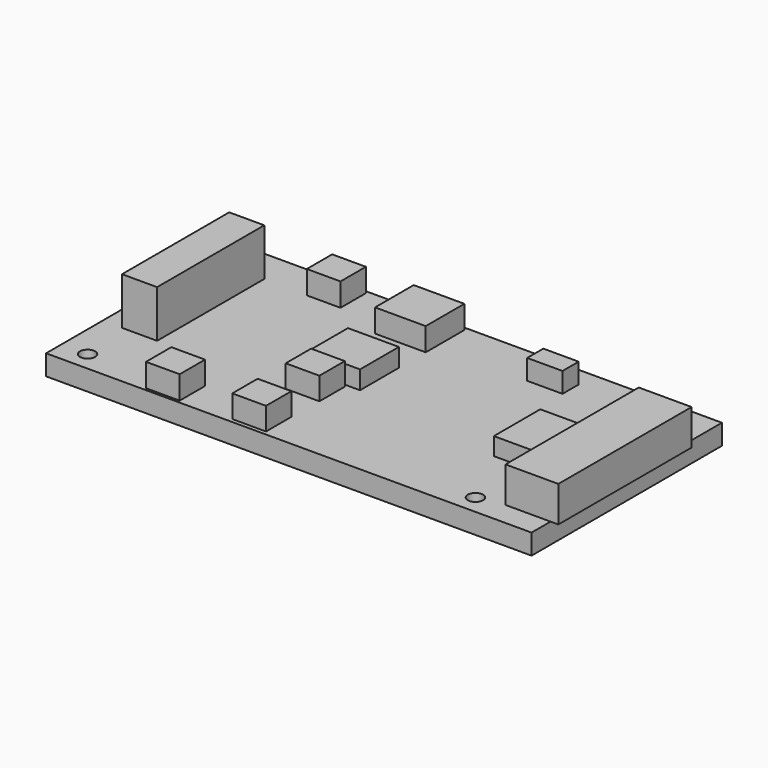
from build123d import *

# Parameters (mm, degrees)
F0_W      = 102
F0_H      = 50
F1_DEPTH  = 4.27
F2_W      = 11.1
F2_H      = 35
F3_DEPTH  = 7.5
F4_W      = 7.37
F4_H      = 28.15
F5_DEPTH  = 9.93
F6_W      = 7.08
F6_H      = 6.66
F7_DEPTH  = 4.88
F8_W      = 10.65
F8_H      = 10.15
F9_DEPTH  = 4.85
F10_W     = 10.71
F10_H     = 10.22
F11_DEPTH = 3.86
F13_W     = 7.08
F13_H     = 6.66
F14_DEPTH = 4.73
F15_W     = 7.08
F15_H     = 6.66
F16_DEPTH = 4.75
F17_W     = 9.3
F17_H     = 12.19
F18_DEPTH = 3.71
F19_W     = 7.42
F19_H     = 4.24
F20_DEPTH = 4.23
F21_R     = 1.6
F22_DEPTH = 25


with BuildPart() as f1:
    # F0 (on Top) → F1 (new body)
    with BuildSketch(Plane.XY):
        Rectangle(F0_W, F0_H)
    extrude(amount=F1_DEPTH)

    # F2 (on face) → F3 (join)
    with BuildSketch(Plane.XY.offset(4.27)):
        with Locations((47.08, -2.5)):
            Rectangle(F2_W, F2_H)
    extrude(amount=F3_DEPTH)

    # F4 (on face) → F5 (join)
    with BuildSketch(Plane.XY.offset(4.27)):
        with Locations((-43.225, 3.906207)):
            Rectangle(F4_W, F4_H)
    extrude(amount=F5_DEPTH)

    # F8 (on face) → F9 (join)
    with BuildSketch(Plane.XY.offset(4.27)):
        with Locations((-7.895, 19.245)):
            Rectangle(F8_W, F8_H)
    extrude(amount=F9_DEPTH)

    # F10 (on face) → F11 (join)
    with BuildSketch(Plane.XY.offset(4.27)):
        with Locations((-7.925, 2.02)):
            Rectangle(F10_W, F10_H)
    extrude(amount=F11_DEPTH)

    # F13 (on face) → F14 (join)
    with BuildSketch(Plane.XY.offset(4.27)):
        with Locations((-8.86, -6.98)):
            Rectangle(F13_W, F13_H)
    extrude(amount=F14_DEPTH)

    # F15 (on face) → F16 (join)
    with BuildSketch(Plane.XY.offset(4.27)):
        with Locations((-9, -20.84)):
            Rectangle(F15_W, F15_H)
    extrude(amount=F16_DEPTH)

    # F17 (on face) → F18 (join)
    with BuildSketch(Plane.XY.offset(4.27)):
        with Locations((33.85, -1.555)):
            Rectangle(F17_W, F17_H)
    extrude(amount=F18_DEPTH)

    # F19 (on face) → F20 (join)
    with BuildSketch(Plane.XY.offset(4.27)):
        with Locations((20.46, 18.79)):
            Rectangle(F19_W, F19_H)
    extrude(amount=F20_DEPTH)

    # F21 (on face) → F22 (cut)
    with BuildSketch(Plane.XY.offset(4.27)):
        with Locations((-45.5, -20.99)):
            Circle(F21_R)
        with Locations((36.01, -21)):
            Circle(F21_R)
        with Locations((-45.5, 20.99)):
            Circle(F21_R)
        with Locations((36.01, 21)):
            Circle(F21_R)
    extrude(amount=-F22_DEPTH, mode=Mode.SUBTRACT)


with BuildPart() as f7:
    # F6 (on face) → F7 (new body)
    with BuildSketch(Plane.XY.offset(4.27)):
        with Locations((-26.91, 21.12)):
            Rectangle(F6_W, F6_H)
    extrude(amount=F7_DEPTH)


with BuildPart() as f12_1:
    # F12: instance of F7
    add(f7.part.mirror(Plane.XZ))


solid = Compound([f1.part, f7.part, f12_1.part])
